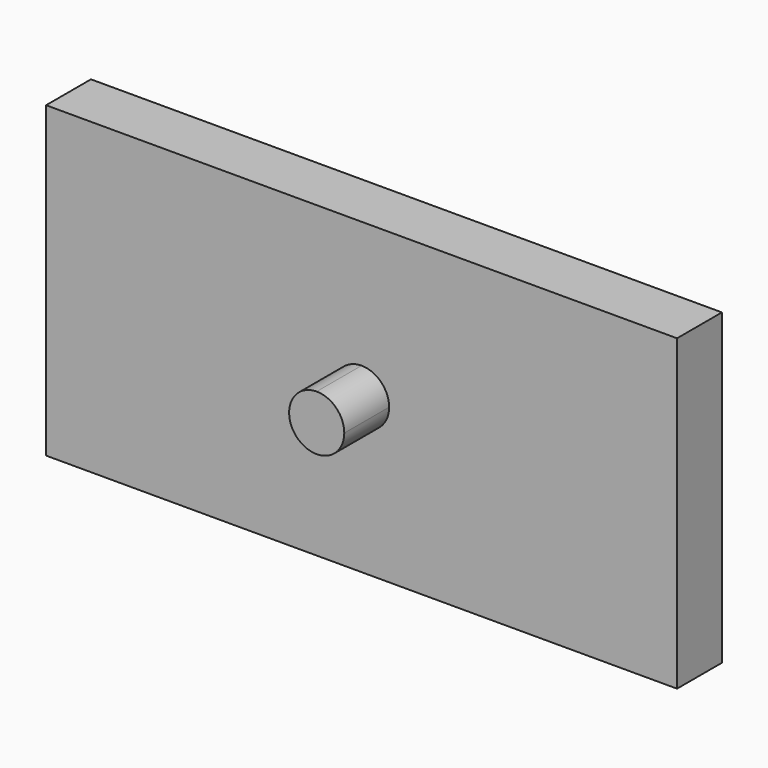
from build123d import *

# Parameters (mm, degrees)
F0_W     = 1143
F0_H     = 558.8
F1_DEPTH = 101.6
F3_DEPTH = 101.6


with BuildPart() as f1:
    # F0 (on Front) → F1 (new body)
    with BuildSketch(Plane.XZ):
        Rectangle(F0_W, F0_H)
    extrude(amount=F1_DEPTH)

    # F2 (on face) → F3 (join)
    with BuildSketch(Plane.XZ.offset(101.6)):
        with BuildLine():
            Line((0, 0), (49.957755, 0))
            ThreePointArc((49.957755, 0), (35.325468, 35.325468), (0, 49.957755))
            Line((0, 49.957755), (0, 0))
        make_face()
        with BuildLine():
            ThreePointArc((0, -49.957755), (35.325468, -35.325468), (49.957755, 0))
            Line((49.957755, 0), (0, 0))
            Line((0, 0), (0, -49.957755))
        make_face()
        with BuildLine():
            Line((0, 0), (0, 49.957755))
            ThreePointArc((0, 49.957755), (-35.325468, 35.325468), (-49.957755, 0))
            Line((-49.957755, 0), (0, 0))
        make_face()
        with BuildLine():
            ThreePointArc((-49.957755, 0), (-35.325468, -35.325468), (0, -49.957755))
            Line((0, -49.957755), (0, 0))
            Line((0, 0), (-49.957755, 0))
        make_face()
    extrude(amount=F3_DEPTH)


solid = f1.part
